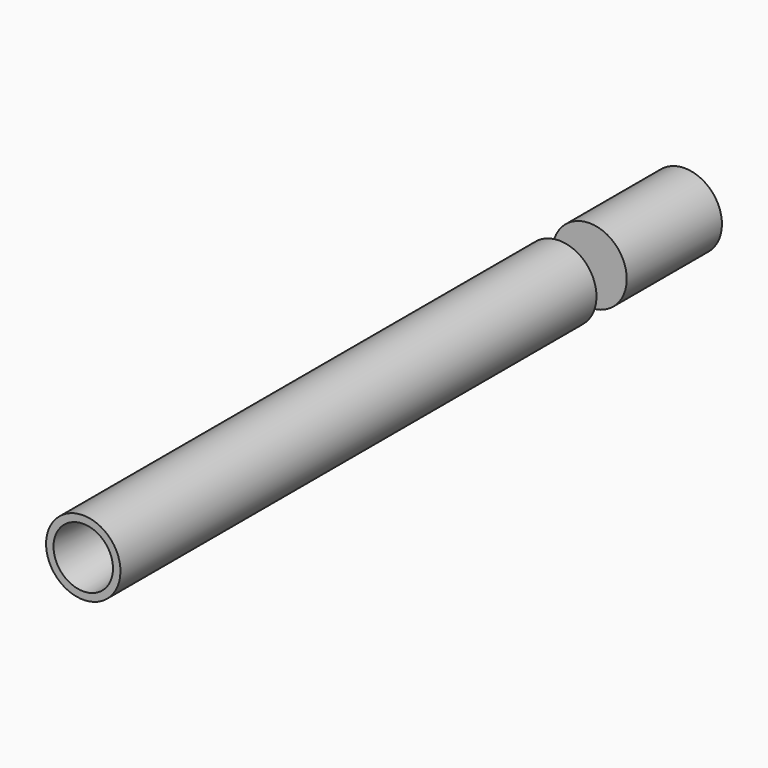
from build123d import *

# Parameters (mm, degrees)
F2_W = 0.8
F2_H = 0.25


with BuildPart() as f1:
    # F0 (on Right) → F1 (revolve)
    with BuildSketch(Plane.YZ):
        Polygon((4, 0.25), (0, 0.25), (0, 0.2), (1.5, 0.0635), (4, 0.0635), align=None)
    revolve(axis=Axis((0, 2.078321, 0), (0, 1, 0)))


with BuildPart() as f3:
    # F2 (on Right) → F3 (revolve)
    with BuildSketch(Plane.YZ):
        with Locations((4.654, 0.125)):
            Rectangle(F2_W, F2_H)
    revolve(axis=Axis((0, 4.654, 0), (0, 1, 0)))


solid = Compound([f1.part, f3.part])
